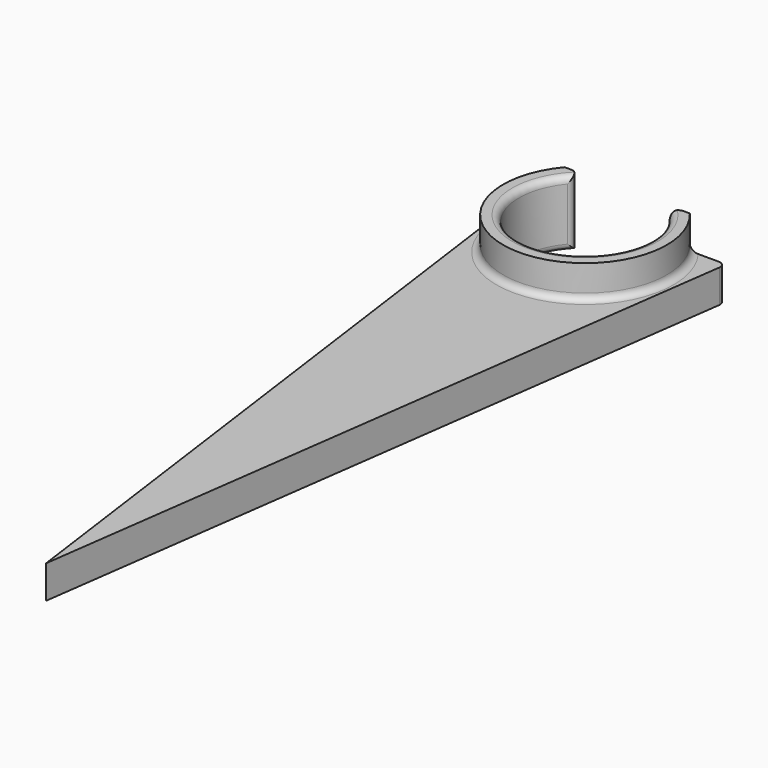
from build123d import *

# Parameters (mm, degrees)
F1_DEPTH = 5
F3_DEPTH = 5
F4_R     = 1


with BuildPart() as f1:
    # F0 (on Top) → F1 (new body)
    with BuildSketch(Plane.XY):
        with BuildLine():
            Line((-15, 0), (0, -110))
            Line((0, -110), (15, 0))
            Line((15, 0), (6, 0))
            ThreePointArc((6, 0), (8.94427191, -3.527864045), (10, -8))
            ThreePointArc((10, -8), (-4.472135955, -16.94427191), (-6, 0))
            Line((-6, 0), (-15, 0))
        make_face()
    extrude(amount=F1_DEPTH)

    # F2 (on face) → F3 (join)
    with BuildSketch(Plane.XY.offset(5)):
        with BuildLine():
            ThreePointArc((6, 0), (0, -18), (-6, 0))
            Line((-6, 0), (-9.4741754259, 0))
            ThreePointArc((-9.4741754259, 0), (0, -20.4), (9.4741754259, 0))
            Line((9.4741754259, 0), (6, 0))
        make_face()
    extrude(amount=F3_DEPTH)

    # F4
    f4_edges = [f1.edges().sort_by_distance(p)[0] for p in [
        (-6, 0, 5),
        (6, 0, 5),
        (0, -18, 10),
        (0, -18, 0),
        (0, -20.4, 5),
        (-15, 0, 2.5),
        (15, 0, 2.5),
    ]]
    fillet(f4_edges, radius=F4_R)


solid = f1.part
